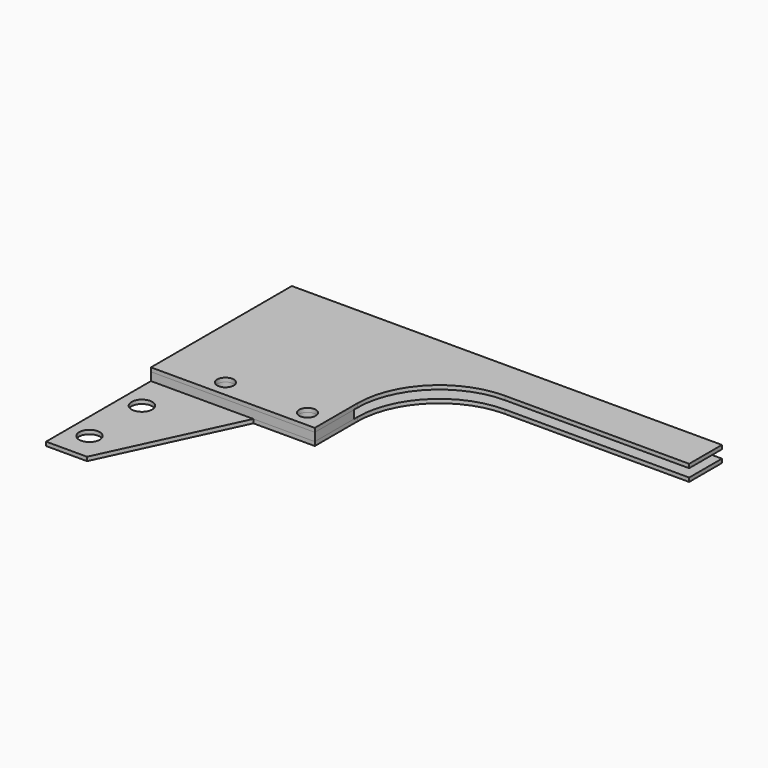
from build123d import *

# Parameters (mm, degrees)
F2_R     = 2.0193
F2_R_2   = 2.5273
F3_DEPTH = 0.953
F4_START = 2
F4_DEPTH = 0.953
F5_DEPTH = 2


with BuildPart() as f3:
    # F2 (on Top) → F3 (new body)
    with BuildSketch(Plane.XY):
        with BuildLine():
            Line((105, 0), (0, 0))
            Line((0, 0), (0, -31))
            Line((0, -31), (40, -31))
            Line((40, -31), (40, -30))
            ThreePointArc((40, -30), (45.8578643763, -15.8578643763), (60, -10))
            Line((60, -10), (105, -10))
            Line((105, -10), (105, 0))
        make_face()
        Polygon((40, -31), (0, -31), (0, -43), (25, -43), (40, -43), align=None)
        with Locations((15, -39)):
            Circle(F2_R, mode=Mode.SUBTRACT)
        with Locations((35, -39)):
            Circle(F2_R, mode=Mode.SUBTRACT)
        Polygon((25, -43), (0, -43), (0, -75), (10, -75), align=None)
        with Locations((5, -68)):
            Circle(F2_R_2, mode=Mode.SUBTRACT)
        with Locations((5, -52)):
            Circle(F2_R_2, mode=Mode.SUBTRACT)
    extrude(amount=-F3_DEPTH)


with BuildPart() as f4:
    # F2 (on Top) → F4 (new body)
    with BuildSketch(Plane.XY.offset(F4_START)):
        with BuildLine():
            Line((105, 0), (0, 0))
            Line((0, 0), (0, -31))
            Line((0, -31), (40, -31))
            Line((40, -31), (40, -30))
            ThreePointArc((40, -30), (45.8578643763, -15.8578643763), (60, -10))
            Line((60, -10), (105, -10))
            Line((105, -10), (105, 0))
        make_face()
        Polygon((40, -31), (0, -31), (0, -43), (25, -43), (40, -43), align=None)
        with Locations((15, -39)):
            Circle(F2_R, mode=Mode.SUBTRACT)
        with Locations((35, -39)):
            Circle(F2_R, mode=Mode.SUBTRACT)
    extrude(amount=F4_DEPTH)


with BuildPart() as f5:
    # F2 (on Top) → F5 (new body)
    with BuildSketch(Plane.XY):
        Polygon((40, -31), (0, -31), (0, -43), (25, -43), (40, -43), align=None)
        with Locations((15, -39)):
            Circle(F2_R, mode=Mode.SUBTRACT)
        with Locations((35, -39)):
            Circle(F2_R, mode=Mode.SUBTRACT)
    extrude(amount=F5_DEPTH)


solid = Compound([f3.part, f4.part, f5.part])
